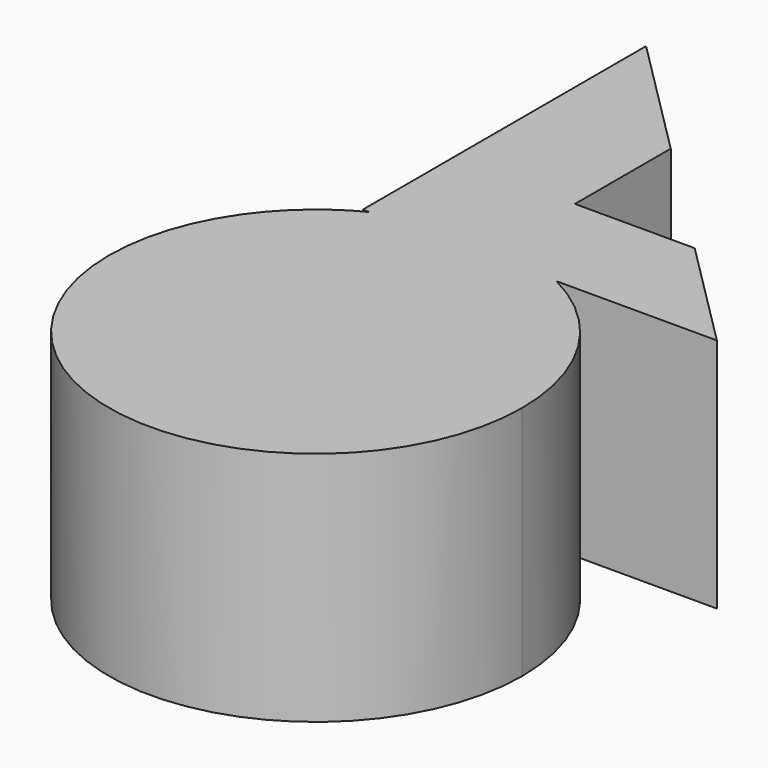
from build123d import *

# Parameters (mm, degrees)
F1_DEPTH = 40


with BuildPart() as f1:
    # F0 (on Top) → F1 (new body)
    with BuildSketch(Plane.XY):
        with BuildLine():
            ThreePointArc((3.942309171, -3.5829284162), (-4.2047941466, -12.6023770601), (-8.7761012616, -23.8642107282))
            Line((-8.7761012616, -23.8642107282), (3.942309171, -23.8642107282))
            Line((3.942309171, -23.8642107282), (3.942309171, -3.5829284162))
        make_face()
        with BuildLine():
            Line((3.942309171, -23.8642107282), (-8.7761012616, -23.8642107282))
            ThreePointArc((-8.7761012616, -23.8642107282), (21.7601480197, -66.0023779885), (60.4471145943, -31.1971157789))
            ThreePointArc((60.4471145943, -31.1971157789), (55.2826725913, -12.8984961859), (41.3134300795, 0))
            Line((41.3134300795, 0), (9.5807991091, 0))
            ThreePointArc((9.5807991091, 0), (6.6758729332, -1.6566268442), (3.942309171, -3.5829284162))
            Line((3.942309171, -3.5829284162), (3.942309171, -23.8642107282))
        make_face()
        with BuildLine():
            ThreePointArc((41.3134300795, 0), (25.4471145943, 3.8028842211), (9.5807991091, 0))
            Line((9.5807991091, 0), (41.3134300795, 0))
        make_face()
        with BuildLine():
            Line((8.4807705134, 0), (9.5807991091, 0))
            ThreePointArc((9.5807991091, 0), (25.4471145943, 3.8028842211), (41.3134300795, 0))
            Line((41.3134300795, 0), (68.4807705134, 0))
            Line((68.4807705134, 0), (49.6739435196, 18.8068269938))
            Line((49.6739435196, 18.8068269938), (29.3806760758, 18.8068269938))
            Line((29.3806760758, 18.8068269938), (29.3806760758, 39.1000944376))
            Line((29.3806760758, 39.1000944376), (8.4807705134, 60))
            Line((8.4807705134, 60), (8.4807705134, 0))
        make_face()
    extrude(amount=F1_DEPTH)


solid = f1.part
